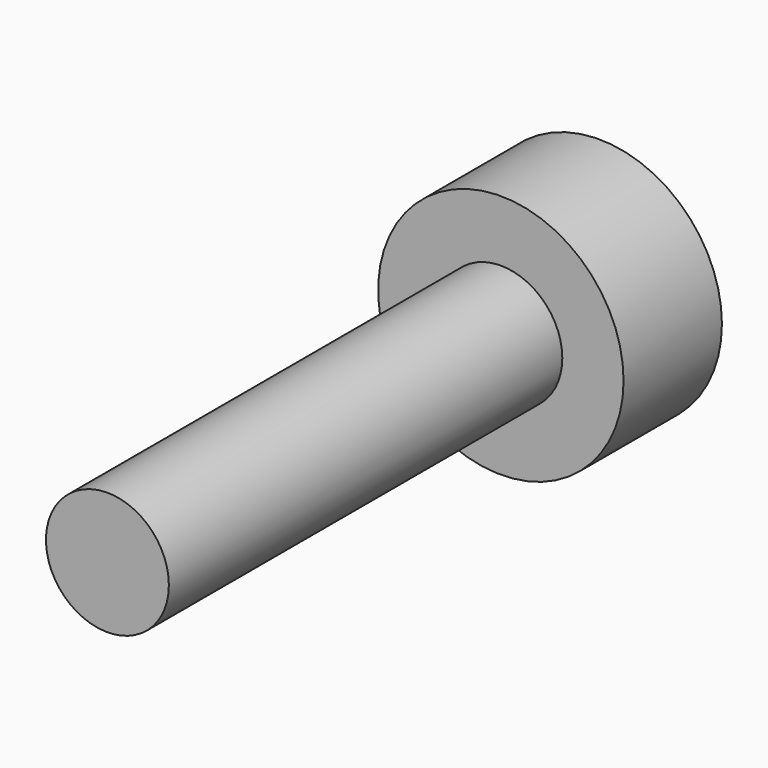
from build123d import *

# Parameters (mm, degrees)
F0_R     = 6.3373
F1_DEPTH = 6.35
F2_R     = 3.17373
F3_DEPTH = 25.4
F4_R     = 1.5875
F5_DEPTH = 2.54


with BuildPart() as f1:
    # F0 (on Front) → F1 (new body)
    with BuildSketch(Plane.XZ):
        Circle(F0_R)
    extrude(amount=F1_DEPTH)

    # F2 (on face) → F3 (join)
    with BuildSketch(Plane.XZ.offset(6.35)):
        Circle(F2_R)
    extrude(amount=F3_DEPTH)

    # F4 (on face) → F5 (cut)
    with BuildSketch(Plane(origin=(0, 0, 0), x_dir=(-1, 0, 0), z_dir=(0, 1, 0))):
        with Locations((-0.635, 3.110852)):
            Circle(F4_R)
    extrude(amount=-F5_DEPTH, mode=Mode.SUBTRACT)


solid = f1.part
